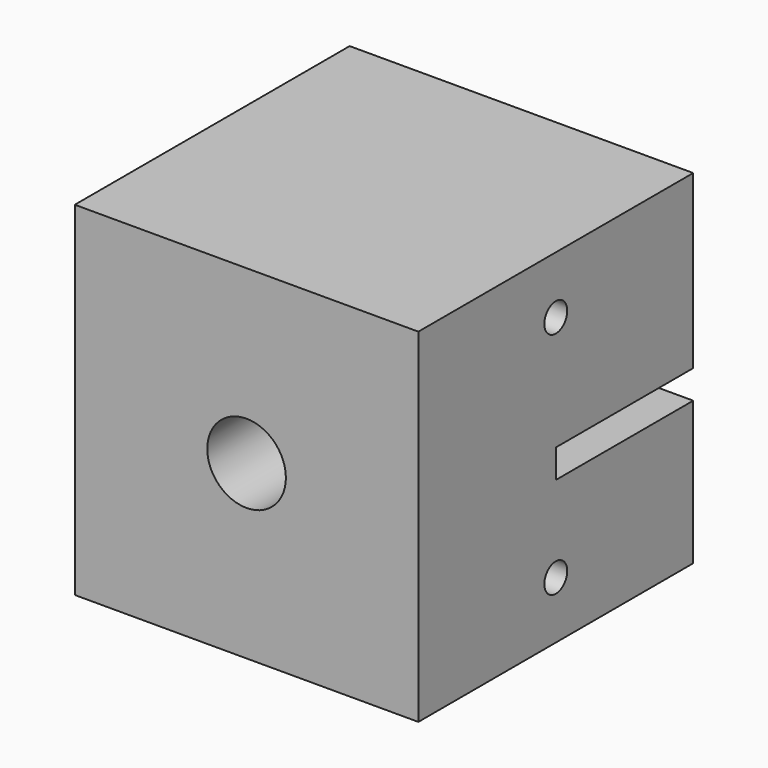
from build123d import *

# Parameters (mm, degrees)
F0_W     = 38.1
F0_H     = 38.1
F6_DEPTH = 19.05
F1_R     = 4.35991
F7_DEPTH = 19.05
F2_W     = 6.35
F2_H     = 3.175
F3_W     = 6.35
F3_H     = 3.175
F8_DEPTH = 19.05
F4_R     = 1.5875
F5_R     = 1.5875
F9_DEPTH = 19.05


with BuildPart() as f6:
    # F0 (on Front) → F6 (new body, symmetric)
    with BuildSketch(Plane.XZ):
        Rectangle(F0_W, F0_H)
    extrude(amount=F6_DEPTH, both=True)

    # F1 (on Front) → F7 (cut, symmetric)
    with BuildSketch(Plane.XZ):
        Circle(F1_R)
    extrude(amount=F7_DEPTH, both=True, mode=Mode.SUBTRACT)

    # F2 (on Front) + F3 (on Front) → F8 (cut, through all)
    with BuildSketch(Plane.XZ):
        with Locations((-15.875, -1.5875)):
            Rectangle(F2_W, F2_H)
    with BuildSketch(Plane.XZ):
        with Locations((15.875, -1.5875)):
            Rectangle(F3_W, F3_H)
    extrude(amount=-F8_DEPTH, mode=Mode.SUBTRACT)

    # F4 (on Right) + F5 (on Right) → F9 (cut, symmetric)
    with BuildSketch(Plane.YZ):
        with Locations((0, 12.7)):
            Circle(F4_R)
    with BuildSketch(Plane.YZ):
        with Locations((0, -12.7)):
            Circle(F5_R)
    extrude(amount=F9_DEPTH, both=True, mode=Mode.SUBTRACT)


solid = f6.part
